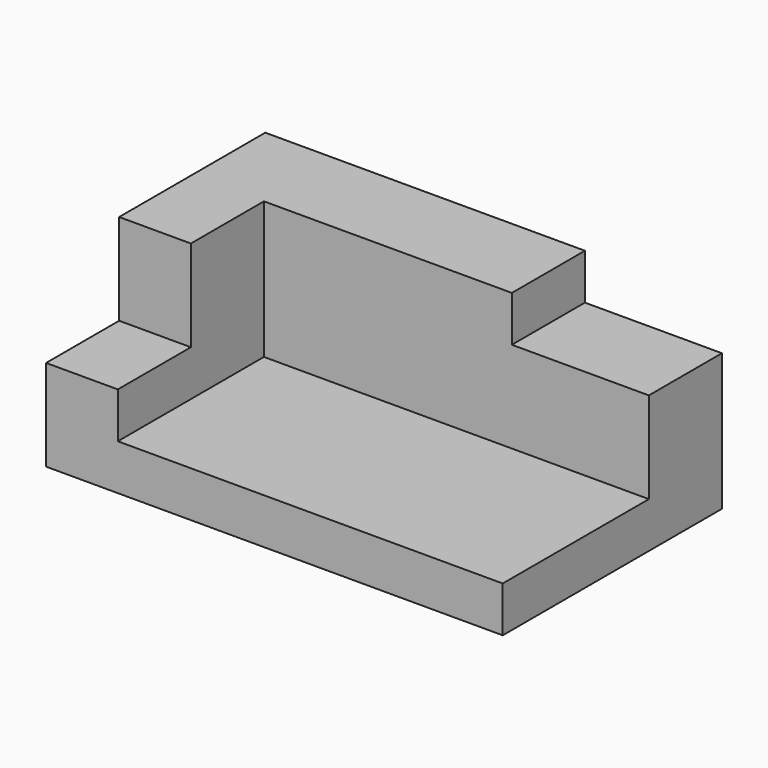
from build123d import *

# Parameters (mm, degrees)
F0_W     = 15.706341
F0_H     = 20
F1_DEPTH = 60
F2_DEPTH = 40
F3_DEPTH = 20


with BuildPart() as f1:
    # F0 (on Front) → F1 (new body)
    with BuildSketch(Plane.XZ):
        Polygon((0, 20), (0, 0), (100, 0), (100, 10), (15.706341, 10), (15.706341, 20), align=None)
        with Locations((7.853171, 30)):
            Rectangle(F0_W, F0_H)
        Polygon((15.706341, 40), (15.706341, 20), (15.706341, 10), (100, 10), (100, 30), (70, 30), (70, 40), align=None)
    extrude(amount=-F1_DEPTH)

    # F0 (on Front) → F2 (cut)
    with BuildSketch(Plane.XZ):
        Polygon((15.706341, 40), (15.706341, 20), (15.706341, 10), (100, 10), (100, 30), (70, 30), (70, 40), align=None)
    extrude(amount=-F2_DEPTH, mode=Mode.SUBTRACT)

    # F0 (on Front) → F3 (cut)
    with BuildSketch(Plane.XZ):
        with Locations((7.853171, 30)):
            Rectangle(F0_W, F0_H)
    extrude(amount=-F3_DEPTH, mode=Mode.SUBTRACT)


solid = f1.part
